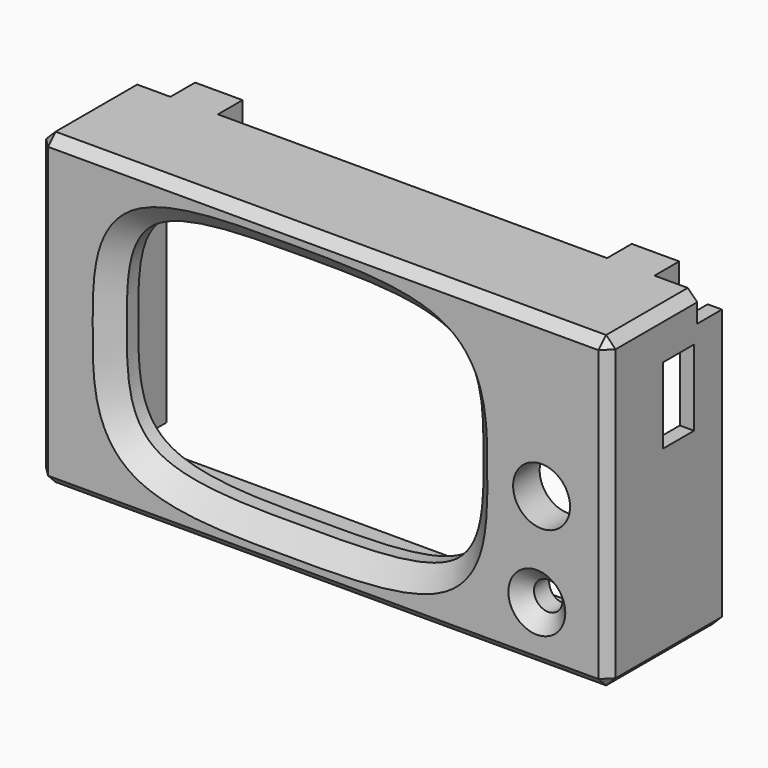
from build123d import *

# Parameters (mm, degrees)
SKETCH029_W             = 120
SKETCH029_H             = 65
PAD005_DEPTH            = 30
SKETCH028_R             = 3
POCKET016_DEPTH         = 30.001
SKETCH001_R             = 6
POCKET017_DEPTH         = 30.001
SKETCH030_W             = 114
SKETCH030_H             = 60
POCKET018_DEPTH         = 23
CHAMFER001_SIZE         = 4
SKETCH031_R             = 3.5
PAD006_DEPTH            = 4.5
SKETCH032_R             = 1.4
POCKET019_DEPTH         = 8
SKETCH033_W             = 16
SKETCH033_H             = 15.5
POCKET020_DEPTH         = 9
SKETCH034_W             = 28
SKETCH034_H             = 4
POCKET021_DEPTH         = 5
SKETCH047_W             = 114
SKETCH047_H             = 19.272015
POCKET_DEPTH            = 5
SKETCH048_W             = 120
SKETCH048_H             = 5.5
PAD007_DEPTH            = 8
SKETCH_W                = 11.731236
SKETCH_H                = 12.876318
SKETCH_W_2              = 82
SKETCH_H_2              = 15.5631
SKETCH_W_3              = 12.49527
SKETCH_H_3              = 12.557034
POCKET032_DEPTH         = 6
CHAMFER_SIZE            = 2
CHAMFER002_SIZE         = 1
CHAMFER003_SIZE         = 3
SKETCH054_W             = 21.563645
SKETCH054_H             = 7.336093
PAD008_DEPTH            = 3
BODY002_PLACEMENT_ANGLE = 270


with BuildPart() as part:
    # Sketch029 → Pad005 (new body)
    with BuildSketch(Plane.XY):
        with Locations((7, 0)):
            Rectangle(SKETCH029_W, SKETCH029_H)
        with BuildLine():
            add(Edge.make_bspline(
                [(0, 25.038668), (-12.580271, 25.038668), (-37.740814, 25.116003), (-37.5, 0), (-37.740814, -25.116003), (0, -25), (37.740814, -25.116003), (37.5, 0), (37.740814, 25.116003), (12.580271, 25.038668), (0, 25.038668)],
                knots=[0, 0, 0, 0, 0.125, 0.25, 0.375, 0.5, 0.625, 0.75, 0.875, 1, 1, 1, 1], degree=3))
        make_face(mode=Mode.SUBTRACT)
    extrude(amount=PAD005_DEPTH)

    # Sketch028 → Pocket016 (cut, through all)
    with BuildSketch(Plane(origin=(0, 0, 0), x_dir=(1, 0, 0), z_dir=(0, 0, -1))):
        with Locations((52, 20.5)):
            Circle(SKETCH028_R)
    extrude(amount=-POCKET016_DEPTH, mode=Mode.SUBTRACT)

    # Sketch001 (on Face5 of Pocket016) → Pocket017 (cut, through all)
    with BuildSketch(Plane.XY.offset(30)):
        with Locations((53, -0.5)):
            Circle(SKETCH001_R)
    extrude(amount=-POCKET017_DEPTH, mode=Mode.SUBTRACT)

    # Sketch030 (on Face4 of Pocket017) → Pocket018 (cut)
    with BuildSketch(Plane(origin=(0, 0, 0), x_dir=(1, 0, 0), z_dir=(0, 0, -1))):
        with Locations((7, 0)):
            Rectangle(SKETCH030_W, SKETCH030_H)
    extrude(amount=-POCKET018_DEPTH, mode=Mode.SUBTRACT)

    # Chamfer001
    chamfer001_edges = [part.edges().sort_by_distance(p)[0] for p in [
        (0, -25.038668, 30),
    ]]
    chamfer(chamfer001_edges, length=CHAMFER001_SIZE)

    # Sketch031 (on Face11 of Chamfer001) → Pad006 (join)
    with BuildSketch(Plane(origin=(0, 0, 23), x_dir=(1, 0, 0), z_dir=(0, 0, -1))):
        with Locations((-45.5, 25)):
            Circle(SKETCH031_R)
        with Locations((-45.5, -25)):
            Circle(SKETCH031_R)
        with Locations((58.5, -25)):
            Circle(SKETCH031_R)
        with Locations((58.5, 25)):
            Circle(SKETCH031_R)
    extrude(amount=PAD006_DEPTH)

    # Sketch032 (on Face22 of Pad006) → Pocket019 (cut)
    with BuildSketch(Plane(origin=(0, 0, 18.5), x_dir=(1, 0, 0), z_dir=(0, 0, -1))):
        with Locations((-45.5, 25)):
            Circle(SKETCH032_R)
        with Locations((58.5, 25)):
            Circle(SKETCH032_R)
        with Locations((58.5, -25)):
            Circle(SKETCH032_R)
        with Locations((-45.5, -25)):
            Circle(SKETCH032_R)
    extrude(amount=-POCKET019_DEPTH, mode=Mode.SUBTRACT)

    # Sketch033 (on Face5 of Pocket019) → Pocket020 (cut)
    with BuildSketch(Plane.YZ.offset(67)):
        with Locations((15, 7.75)):
            Rectangle(SKETCH033_W, SKETCH033_H)
    extrude(amount=-POCKET020_DEPTH, mode=Mode.SUBTRACT)

    # Sketch034 (on Face4 of Pocket020) → Pocket021 (cut)
    with BuildSketch(Plane(origin=(-53, 0, 0), x_dir=(0, -1, 0), z_dir=(-1, 0, 0))):
        with Locations((0, 15.5)):
            Rectangle(SKETCH034_W, SKETCH034_H)
    extrude(amount=-POCKET021_DEPTH, mode=Mode.SUBTRACT)

    # Sketch047 (on Face6 of Pocket021) → Pocket (cut)
    with BuildSketch(Plane.XZ.offset(32.5)):
        with Locations((7, 2.363993)):
            Rectangle(SKETCH047_W, SKETCH047_H)
    extrude(amount=-POCKET_DEPTH, mode=Mode.SUBTRACT)

    # Sketch048 (on Face10 of Pocket) → Pad007 (join)
    with BuildSketch(Plane(origin=(0, 0, 0), x_dir=(1, 0, 0), z_dir=(0, 0, -1))):
        with Locations((7, -29.25)):
            Rectangle(SKETCH048_W, SKETCH048_H)
    extrude(amount=-PAD007_DEPTH)

    # Sketch (on Face3 of Pocket) → Pocket032 (cut)
    with BuildSketch(Plane(origin=(0, 32.5, 0), x_dir=(-1, 0, 0), z_dir=(0, 1, 0))):
        with Locations((-63.865618, 0.061841)):
            Rectangle(SKETCH_W, SKETCH_H)
        with Locations((-7, -1.28155)):
            Rectangle(SKETCH_W_2, SKETCH_H_2)
        with Locations((50.247635, 0.221483)):
            Rectangle(SKETCH_W_3, SKETCH_H_3)
    extrude(amount=-POCKET032_DEPTH, mode=Mode.SUBTRACT)

    # Chamfer
    chamfer_edges = [part.edges().sort_by_distance(p)[0] for p in [
        (67, 32.5, 18.25),
        (67, 0, 30),
        (7, 32.5, 30),
        (67, -32.5, 15),
        (7, -32.5, 30),
        (-53, 0, 30),
        (-53, -32.5, 15),
        (-53, 32.5, 18.25),
    ]]
    chamfer(chamfer_edges, length=CHAMFER_SIZE)

    # Chamfer002
    chamfer002_edges = [part.edges().sort_by_distance(p)[0] for p in [
        (-53, 0, 17.5),
        (-53, 14, 15.5),
        (-53, 0, 13.5),
        (-53, -14, 15.5),
    ]]
    chamfer(chamfer002_edges, length=CHAMFER002_SIZE)

    # Chamfer003
    chamfer003_edges = [part.edges().sort_by_distance(p)[0] for p in [
        (49, -20.5, 30),
    ]]
    chamfer(chamfer003_edges, length=CHAMFER003_SIZE)

    # Sketch054 (on Face11 of Chamfer003) → Pad008 (join)
    with BuildSketch(Plane.YZ.offset(67)):
        with Locations((14.145369, 3.668046)):
            Rectangle(SKETCH054_W, SKETCH054_H)
    extrude(amount=-PAD008_DEPTH)


with BuildPart() as part_1:
    # Body002 placement: moved
    add(part.part.moved(Location((-8.5, 0.022108, 33.334158))).rotate(Axis((-8.5, 0.022108, 33.334158), (-1, 0, 0)), BODY002_PLACEMENT_ANGLE))


solid = part_1.part
